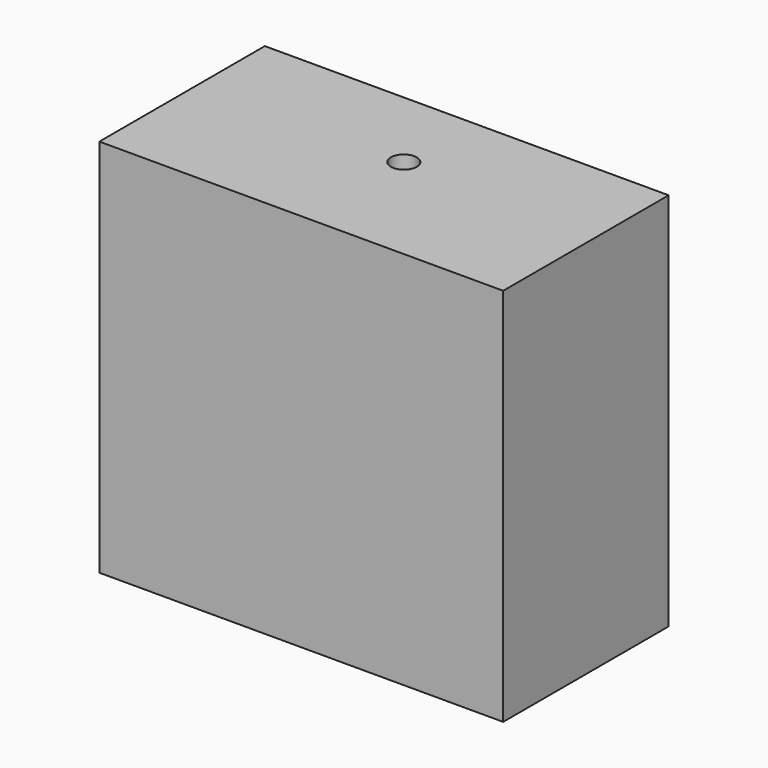
from build123d import *

# Parameters (mm, degrees)
F0_W     = 99.192522
F0_H     = 93.229045
F1_DEPTH = 50.8
F3_D     = 6.35


with BuildPart() as f1:
    # F0 (on Front) → F1 (new body)
    with BuildSketch(Plane.XZ):
        with Locations((3.279913, 14.908696)):
            Rectangle(F0_W, F0_H)
        with Locations((3.279913, 14.908696)):
            Rectangle(F0_W, F0_H)
    extrude(amount=-F1_DEPTH)

    # F3 (through all)
    with Locations(Plane.XY.offset(61.523218)):
        with Locations((4.592381, 29.83778)):
            Hole(F3_D / 2)


solid = f1.part
